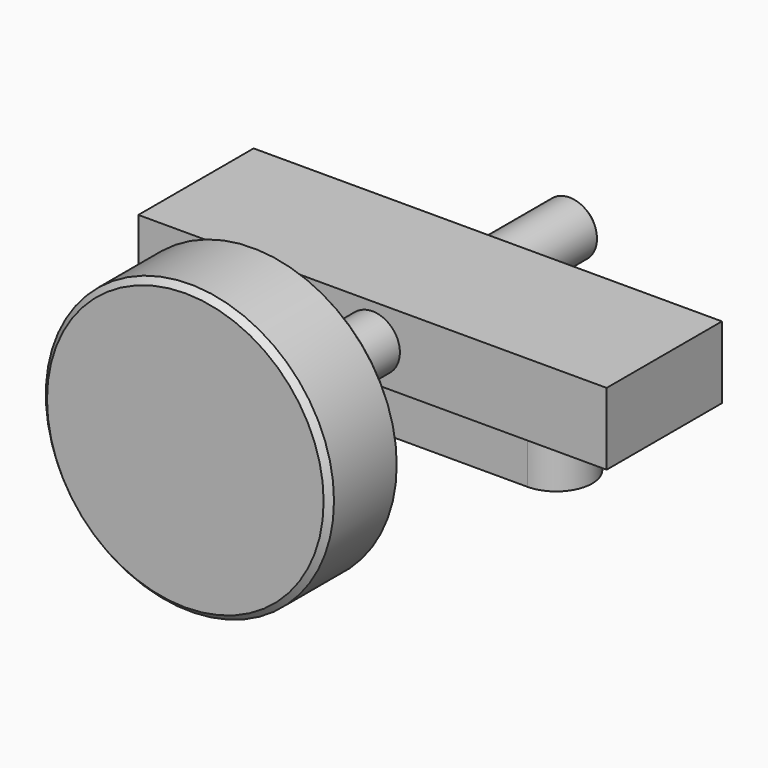
from build123d import *

# Parameters (mm, degrees)
F0_W      = 41.275
F0_H      = 12.7
F1_DEPTH  = 6.35
F3_DEPTH  = 5.715
F5_D      = 4.0386
F5_DEPTH  = 10.16
F5_TIP    = 1.213317848
F7_D      = 4.0386
F9_R      = 12.7
F10_DEPTH = 7.9248
F11_R     = 2.413
F12_DEPTH = 34.925
F13_SIZE  = 0.508


with BuildPart() as f1:
    # F0 (on Top) → F1 (new body)
    with BuildSketch(Plane.XY):
        Rectangle(F0_W, F0_H)
    extrude(amount=F1_DEPTH)

    # F2 (on face) → F3 (join)
    with BuildSketch(Plane(origin=(0, 0, 0), x_dir=(1, 0, 0), z_dir=(0, 0, -1))):
        with BuildLine():
            ThreePointArc((-11.1125, 3.175), (-14.2875, 0), (-11.1125, -3.175))
            Line((-11.1125, -3.175), (11.1125, -3.175))
            ThreePointArc((11.1125, -3.175), (14.2875, 0), (11.1125, 3.175))
            Line((11.1125, 3.175), (-11.1125, 3.175))
        make_face()
    extrude(amount=F3_DEPTH)

    # F5
    with Locations(Plane(origin=(0, 0, -5.715), x_dir=(1, 0, 0), z_dir=(0, 0, -1))):
        with Locations((-9.5377, 0), (9.5377, 0)):
            Hole(F5_D / 2, depth=F5_DEPTH)
            with Locations((0, 0, -(F5_DEPTH + F5_TIP / 2))):  # 118° drill point
                Cone(0, F5_D / 2, F5_TIP, mode=Mode.SUBTRACT)

    # F7 (through all)
    with Locations(Plane.XZ.offset(6.35)):
        with Locations((0, 3.175)):
            Hole(F7_D / 2)


with BuildPart() as f10:
    # F9 (on offset) → F10 (new body)
    with BuildSketch(Plane.XZ.offset(19.05)):
        with Locations((0, 3.175)):
            Circle(F9_R)
    extrude(amount=F10_DEPTH)

    # F11 (on face) → F12 (join)
    with BuildSketch(Plane(origin=(0, -19.05, 0), x_dir=(-1, 0, 0), z_dir=(0, 1, 0))):
        with Locations((0, 3.175)):
            Circle(F11_R)
    extrude(amount=F12_DEPTH)

    # F13
    f13_edges = [f10.edges().sort_by_distance(p)[0] for p in [
        (-12.7, -26.9748, 3.175),
        (-12.7, -19.05, 3.175),
        (2.413, 15.875, 3.175),
    ]]
    chamfer(f13_edges, length=F13_SIZE)


solid = Compound([f1.part, f10.part])
